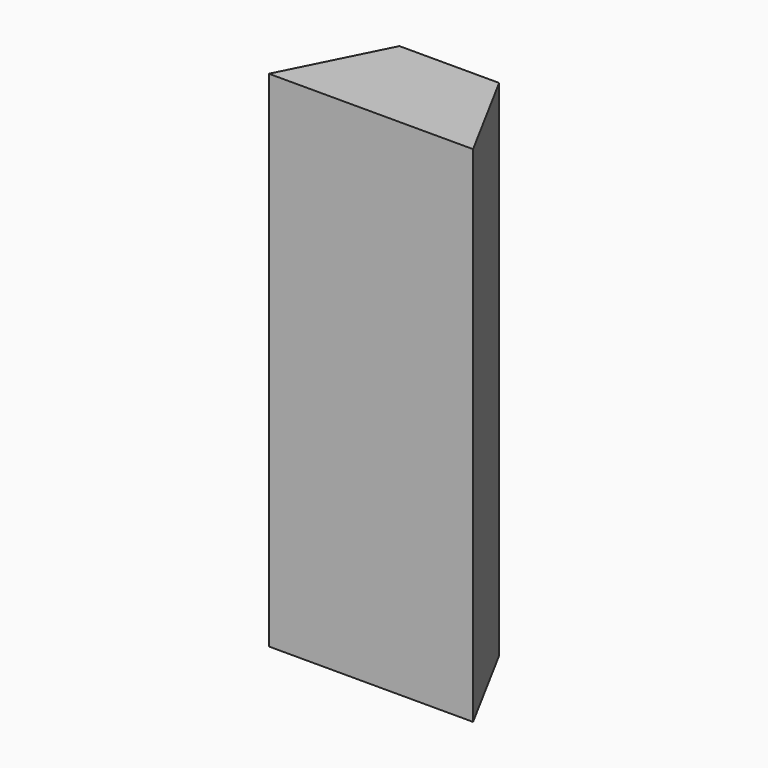
from build123d import *

# Parameters (mm, degrees)
PAD_DEPTH = 100


with BuildPart() as part:
    # Sketch → Pad (new body)
    with BuildSketch(Plane.XY):
        Polygon((20.797487, 0), (10.075298, 19.86828), (-9.698715, 19.86828), (-19.692156, 0), align=None)
    extrude(amount=PAD_DEPTH)


solid = part.part
